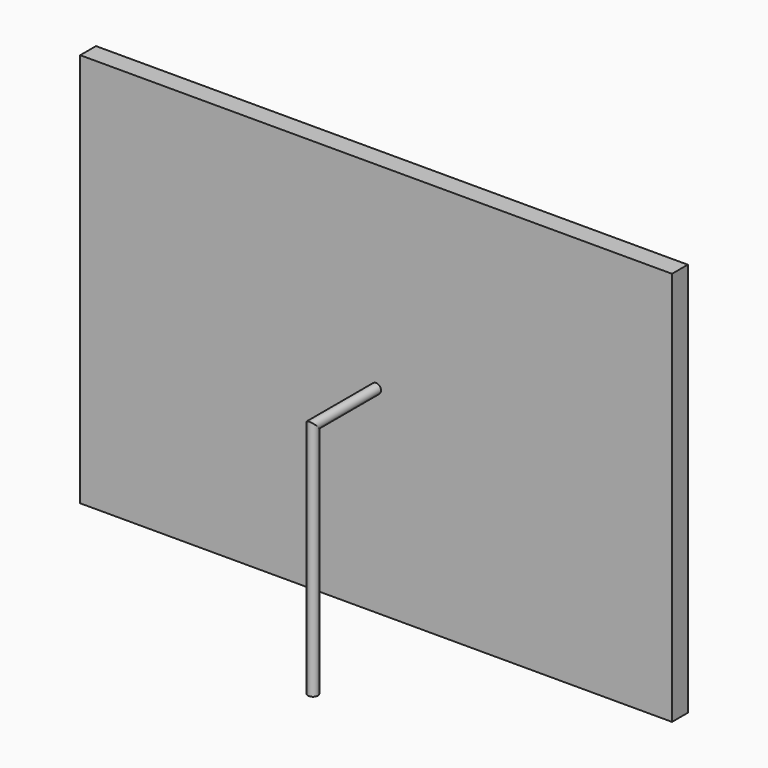
from build123d import *

# Parameters (mm, degrees)
F0_W     = 762
F0_H     = 508
F1_DEPTH = 25.4
F3_R     = 6.35


with BuildPart() as f1:
    # F0 (on Front) → F1 (new body)
    with BuildSketch(Plane.XZ):
        Rectangle(F0_W, F0_H)
    extrude(amount=F1_DEPTH)

    # F4: sweep along a path in F2
    with BuildLine(Plane.YZ) as f4_path:
        Line((0, 0), (-127, 0))
        Line((-127, 0), (-127, -304.8))
    # F3 (on Front) → F4 (sweep)
    with BuildSketch(Plane.XZ):
        Circle(F3_R)
    sweep(path=f4_path.line, transition=Transition.RIGHT)


solid = f1.part
